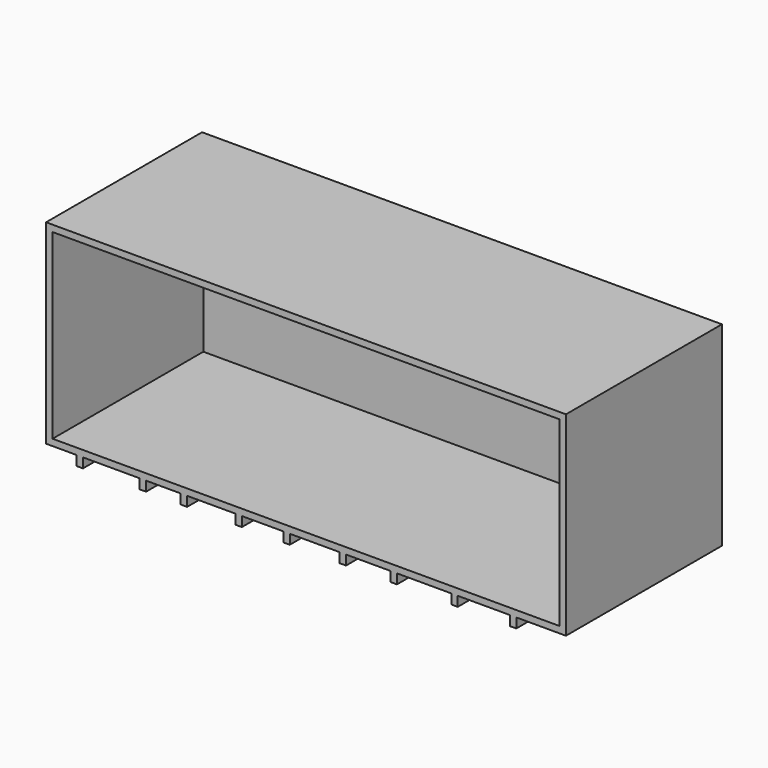
from build123d import *

# Parameters (mm, degrees)
F0_W     = 12192
F0_H     = 4572
F1_DEPTH = 4572
F2_T     = -152.4
F3_W     = 152.4
F3_H     = 4572
F4_DEPTH = 228.6


with BuildPart() as f1:
    # F0 (on Front) → F1 (new body)
    with BuildSketch(Plane.XZ):
        with Locations((-55.671293, 156.041737)):
            Rectangle(F0_W, F0_H)
    extrude(amount=F1_DEPTH)

    # F2
    f2_openings = [f1.faces().sort_by_distance(p)[0] for p in [
        (-55.671293, -4572, 156.041737),
    ]]
    offset(amount=F2_T, openings=f2_openings)

    # F3 (on face) → F4 (join)
    with BuildSketch(Plane(origin=(0, 0, -2129.958263), x_dir=(1, 0, 0), z_dir=(0, 0, -1))):
        with Locations((4799.200526, 2286)):
            Rectangle(F3_W, F3_H)
        with Locations((3426.486007, 2286)):
            Rectangle(F3_W, F3_H)
        with Locations((2000.28812, 2286)):
            Rectangle(F3_W, F3_H)
        with Locations((805.847875, 2286)):
            Rectangle(F3_W, F3_H)
        with Locations((-513.384887, 2286)):
            Rectangle(F3_W, F3_H)
        with Locations((-1636.515507, 2286)):
            Rectangle(F3_W, F3_H)
        with Locations((-2920.093306, 2286)):
            Rectangle(F3_W, F3_H)
        with Locations((-3882.776507, 2286)):
            Rectangle(F3_W, F3_H)
        with Locations((-5362.456807, 2286)):
            Rectangle(F3_W, F3_H)
    extrude(amount=F4_DEPTH)


solid = f1.part
